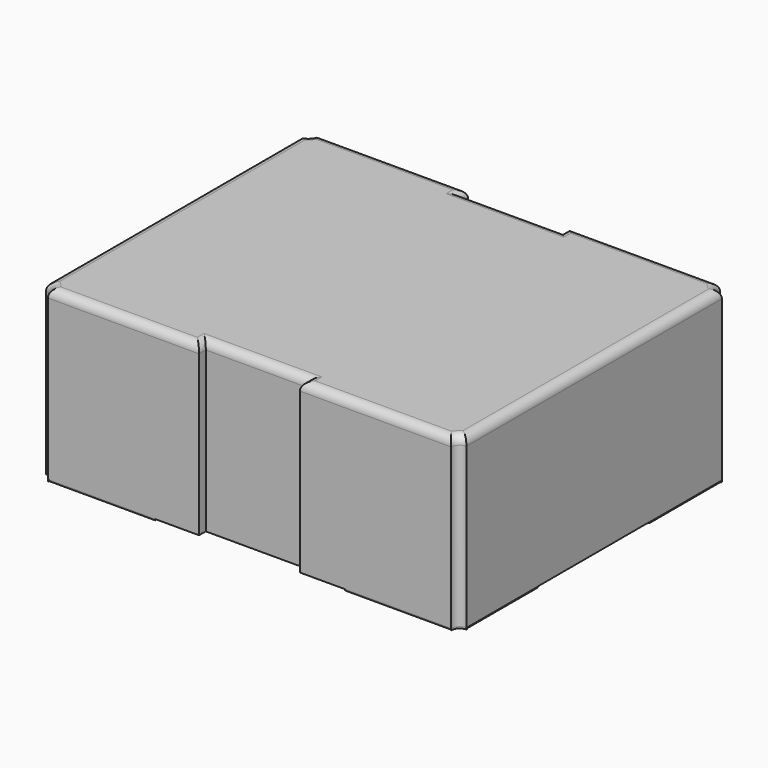
from build123d import *

# Parameters (mm, degrees)
EXTRUDE_DEPTH    = 1
FILLET_R         = 0.05
EXTRUDE001_DEPTH = 0.01
EXTRUDE002_DEPTH = 0.01
EXTRUDE003_DEPTH = 0.01
EXTRUDE004_DEPTH = 0.01


with BuildPart() as fillet_body:
    # Sketch → Extrude (new body)
    with BuildSketch(Plane.XY):
        with BuildLine():
            Line((0.95, 2), (0.95, 1.95))
            Line((0.95, 1.95), (1.55, 1.95))
            Line((1.55, 1.95), (1.55, 2))
            Line((1.55, 2), (2.45, 2))
            ThreePointArc((2.45, 2), (2.464645, 1.964645), (2.5, 1.95))
            Line((2.5, 1.95), (2.5, 0.05))
            ThreePointArc((2.5, 0.05), (2.464645, 0.035355), (2.45, 0))
            Line((2.45, 0), (1.55, 0))
            Line((1.55, 0), (1.55, 0.05))
            Line((1.55, 0.05), (0.95, 0.05))
            Line((0.95, 0.05), (0.95, 0))
            Line((0.95, 0), (0.05, 0))
            ThreePointArc((0.05, 0), (0.035355, 0.035355), (0, 0.05))
            Line((0, 0.05), (0, 1.95))
            ThreePointArc((0, 1.95), (0.035355, 1.964645), (0.05, 2))
            Line((0.05, 2), (0.95, 2))
        make_face()
    extrude(amount=EXTRUDE_DEPTH)

    # Fillet
    fillet_edges = [fillet_body.edges().sort_by_distance(p)[0] for p in [
        (0.95, 1.975, 1),
        (1.25, 1.95, 1),
        (1.55, 1.975, 1),
        (2, 2, 1),
        (2.464645, 1.964645, 1),
        (2.5, 1, 1),
        (2.464645, 0.035355, 1),
        (2, 0, 1),
        (1.55, 0.025, 1),
        (1.25, 0.05, 1),
        (0.95, 0.025, 1),
        (0.5, 0, 1),
        (0.035355, 0.035355, 1),
        (0, 1, 1),
        (0.035355, 1.964645, 1),
        (0.5, 2, 1),
    ]]
    fillet(fillet_edges, radius=FILLET_R)


with BuildPart() as extrude001:
    # Sketch001 → Extrude001 (new body)
    with BuildSketch(Plane.XY):
        with BuildLine():
            Line((0.055, 0), (0.055, 0.005))
            Line((0.055, 0.005), (0.685, 0.005))
            Line((0.685, 0.005), (0.685, 0.232124))
            Line((0.685, 0.232124), (0.332124, 0.585))
            Line((0.332124, 0.585), (0.005, 0.585))
            Line((0.005, 0.585), (0.005, 0.055))
            Line((0, 0.055), (0.005, 0.055))
            Line((0, 0.05), (0, 0.055))
            ThreePointArc((0.05, 0), (0.035355, 0.035355), (0, 0.05))
            Line((0.05, 0), (0.055, 0))
        make_face()
    extrude(amount=-EXTRUDE001_DEPTH)


with BuildPart() as extrude002:
    # Sketch002 → Extrude002 (new body)
    with BuildSketch(Plane.XY):
        with BuildLine():
            Line((0.055, 0), (0.055, 0.005))
            Line((0.055, 0.005), (0.685, 0.005))
            Line((0.685, 0.005), (0.685, 0.232124))
            Line((0.685, 0.232124), (0.332124, 0.585))
            Line((0.332124, 0.585), (0.005, 0.585))
            Line((0.005, 0.585), (0.005, 0.055))
            Line((0, 0.055), (0.005, 0.055))
            Line((0, 0.05), (0, 0.055))
            ThreePointArc((0.05, 0), (0.035355, 0.035355), (0, 0.05))
            Line((0.05, 0), (0.055, 0))
        make_face()
    extrude(amount=-EXTRUDE002_DEPTH)


with BuildPart() as part_mirroring:
    # Part__Mirroring: instance of Extrude002
    add(extrude002.part.mirror(Plane(origin=(1.25, 0, 0), x_dir=(0, -1, 0), z_dir=(1, 0, 0))))


with BuildPart() as extrude003:
    # Sketch003 → Extrude003 (new body)
    with BuildSketch(Plane.XY):
        with BuildLine():
            Line((0.055, 0), (0.055, 0.005))
            Line((0.055, 0.005), (0.685, 0.005))
            Line((0.685, 0.005), (0.685, 0.232124))
            Line((0.685, 0.232124), (0.332124, 0.585))
            Line((0.332124, 0.585), (0.005, 0.585))
            Line((0.005, 0.585), (0.005, 0.055))
            Line((0, 0.055), (0.005, 0.055))
            Line((0, 0.05), (0, 0.055))
            ThreePointArc((0.05, 0), (0.035355, 0.035355), (0, 0.05))
            Line((0.05, 0), (0.055, 0))
        make_face()
    extrude(amount=-EXTRUDE003_DEPTH)


with BuildPart() as part_mirroring002:
    # Part__Mirroring002: instance of Extrude003
    add(extrude003.part.mirror(Plane(origin=(0, 1, 0), x_dir=(1, 0, 0), z_dir=(0, 1, 0))))


with BuildPart() as extrude004:
    # Sketch004 → Extrude004 (new body)
    with BuildSketch(Plane.XY):
        with BuildLine():
            Line((0.055, 0), (0.055, 0.005))
            Line((0.055, 0.005), (0.685, 0.005))
            Line((0.685, 0.005), (0.685, 0.232124))
            Line((0.685, 0.232124), (0.332124, 0.585))
            Line((0.332124, 0.585), (0.005, 0.585))
            Line((0.005, 0.585), (0.005, 0.055))
            Line((0, 0.055), (0.005, 0.055))
            Line((0, 0.05), (0, 0.055))
            ThreePointArc((0.05, 0), (0.035355, 0.035355), (0, 0.05))
            Line((0.05, 0), (0.055, 0))
        make_face()
    extrude(amount=-EXTRUDE004_DEPTH)


with BuildPart() as part_mirroring001:
    # Part__Mirroring001: instance of Extrude004
    add(extrude004.part.mirror(Plane(origin=(1.25, 0, 0), x_dir=(0, -1, 0), z_dir=(1, 0, 0))))


with BuildPart() as part_mirroring003:
    # Part__Mirroring003: instance of Part__Mirroring001
    add(part_mirroring001.part.mirror(Plane(origin=(0, 1, 0), x_dir=(1, 0, 0), z_dir=(0, 1, 0))))


solid = Compound([fillet_body.part, extrude001.part, part_mirroring.part, part_mirroring002.part, part_mirroring003.part])
